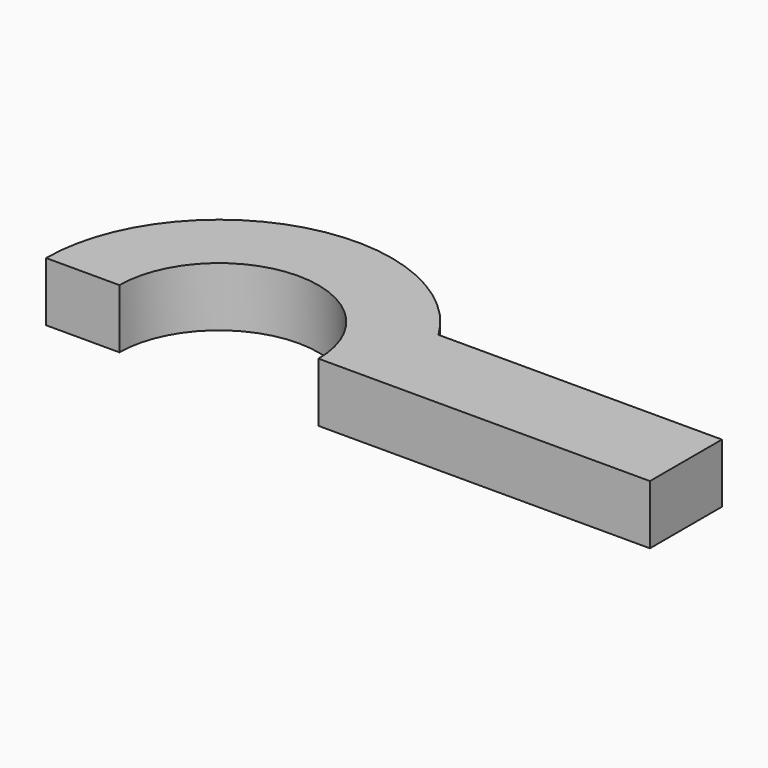
from build123d import *

# Parameters (mm, degrees)
F1_DEPTH = 25


with BuildPart() as f1:
    # F0 (on Top) → F1 (new body)
    with BuildSketch(Plane.XY):
        with BuildLine():
            ThreePointArc((-42, 0), (0, 42), (42, 0))
            Line((42, 0), (62.329768, 0))
            Line((62.329768, 0), (73, 0))
            Line((73, 0), (182, 0))
            Line((182, 0), (182, 38))
            Line((182, 38), (62.329768, 38))
            ThreePointArc((62.329768, 38), (-19.734829, 70.281836), (-73, 0))
            Line((-73, 0), (-42, 0))
        make_face()
    extrude(amount=F1_DEPTH)


solid = f1.part
